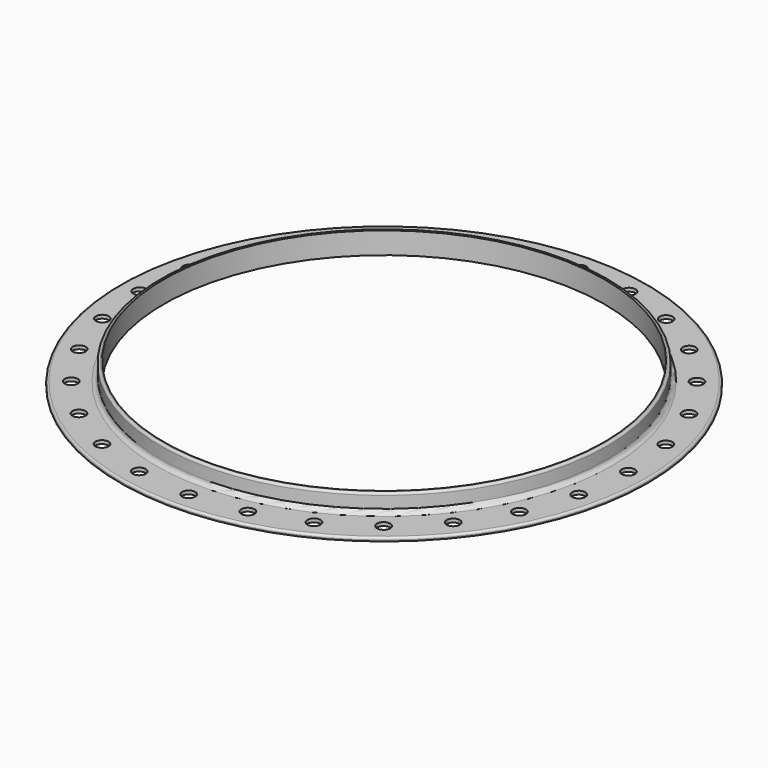
from build123d import *

# Parameters (mm, degrees)
FILLET_R           = 10
FILLET001_R        = 5
SKETCH001_R        = 15
POCKET_DEPTH       = 3473.858474
POLARPATTERN_COUNT = 28


with BuildPart() as part:
    # Sketch → Revolution (revolve)
    with BuildSketch(Plane.XZ):
        Polygon((505, 50), (505, 0), (605, 0), (605, 8), (513, 8), (513, 50), align=None)
    revolve(axis=Axis((0, 0, 0), (0, 0, 1)))

    # Fillet
    fillet_edges = [part.edges().sort_by_distance(p)[0] for p in [
        (-513, 0, 8),
    ]]
    fillet(fillet_edges, radius=FILLET_R)

    # Fillet001
    fillet001_edges = [part.edges().sort_by_distance(p)[0] for p in [
        (-605, 0, 8),
        (-513, 0, 50),
    ]]
    fillet(fillet001_edges, radius=FILLET001_R)

    # Sketch001 → Pocket (cut, through all)
    with BuildSketch(Plane.XY):
        with Locations((0, 560)):
            Circle(SKETCH001_R)
    pocket = extrude(amount=POCKET_DEPTH, mode=Mode.SUBTRACT)

    # PolarPattern: Pocket ×28 about axis
    polarpattern_axis = Axis((0, 0, 0), (0, 0, 1))
    for i in range(1, POLARPATTERN_COUNT):
        add(pocket.rotate(polarpattern_axis, i * 360 / POLARPATTERN_COUNT), mode=Mode.SUBTRACT)


solid = part.part
